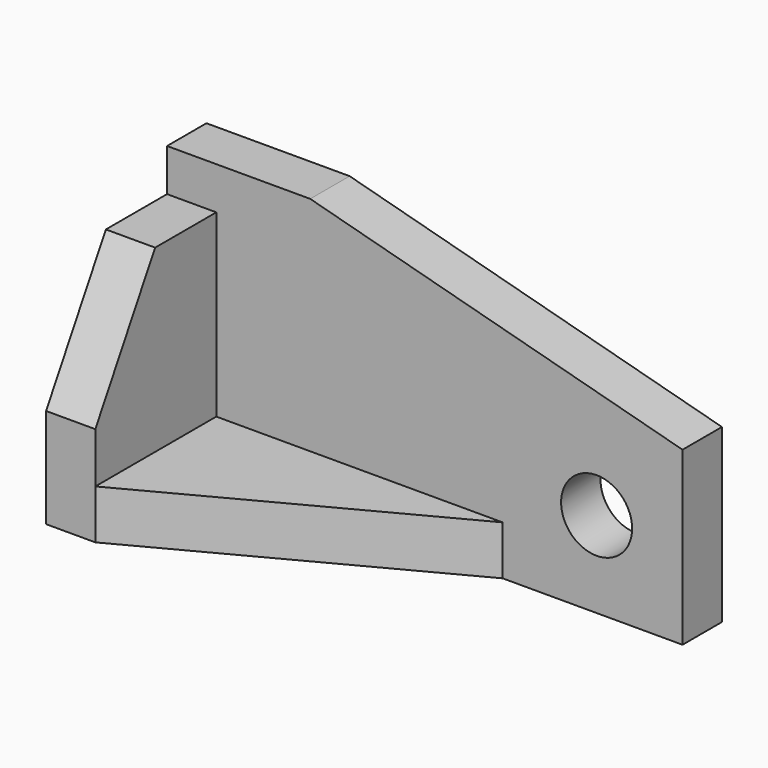
from build123d import *

# Parameters (mm, degrees)
F0_R     = 7.874
F0_W     = 63.5
F0_H     = 10.922
F1_DEPTH = 10.922
F3_DEPTH = 10.922
F5_DEPTH = 10.922


with BuildPart() as f1:
    # F0 (on Front) → F1 (new body)
    with BuildSketch(Plane.XZ):
        Polygon((0, 60.198), (0, 50.8), (10.922, 50.8), (10.922, 10.922), (74.422, 10.922), (74.422, 0), (114.3, 0), (114.3, 38.078794), (31.75, 60.198), align=None)
        with Locations((95.25, 19.05)):
            Circle(F0_R, mode=Mode.SUBTRACT)
        with Locations((42.672, 5.461)):
            Rectangle(F0_W, F0_H)
        Polygon((0, 50.8), (0, 0), (10.922, 0), (10.922, 10.922), (10.922, 50.8), align=None)
    extrude(amount=-F1_DEPTH)


with BuildPart() as f3:
    # F2 (on Right) → F3 (new body)
    with BuildSketch(Plane.YZ):
        Polygon((0, 0), (0, 50.8), (-16.956893, 50.8), (-33.528, 22.098), (-33.528, 0), align=None)
    extrude(amount=F3_DEPTH)


with BuildPart() as f5:
    # F4 (on Top) → F5 (new body)
    with BuildSketch(Plane.XY):
        Polygon((10.922, 0), (10.922, -33.528), (74.422, 0), align=None)
    extrude(amount=F5_DEPTH)


solid = Compound([f1.part, f3.part, f5.part])
